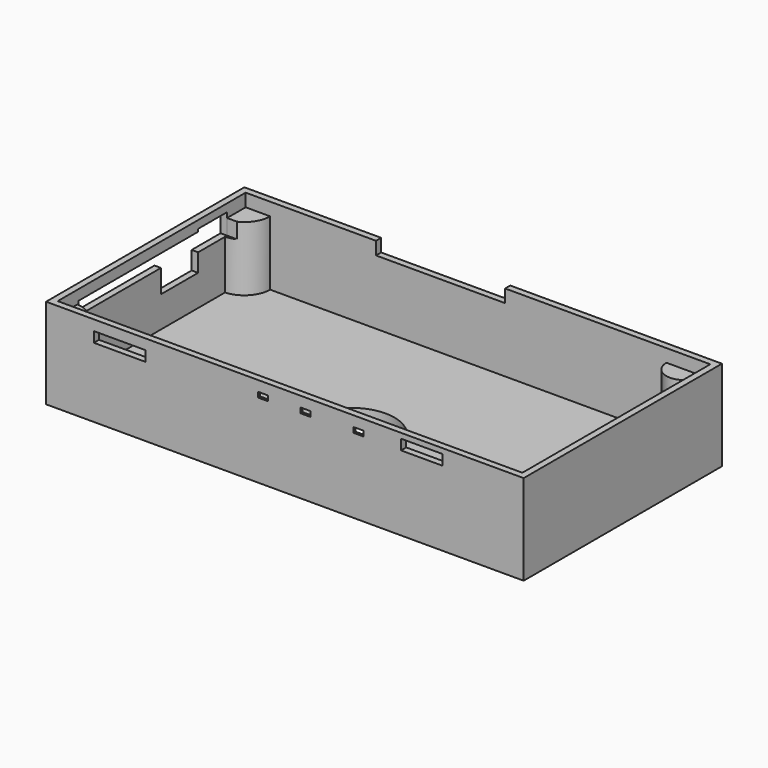
from build123d import *

# Parameters (mm, degrees)
CYLINDER_W                  = 10
CYLINDER_H                  = 30
CYLINDER_ANGLE              = 90
CYLINDER002_W               = 7
CYLINDER002_H               = 30
CYLINDER002_ANGLE           = 180
CYLINDER003_W               = 10
CYLINDER003_H               = 27
CYLINDER003_ANGLE           = 90
CYLINDER003_PLACEMENT_ANGLE = 90
BOX002_W                    = 10
BOX002_H                    = 14
BOX002_DEPTH                = 8
CYLINDER001_W               = 10
CYLINDER001_H               = 30
CYLINDER001_ANGLE           = 90
CYLINDER001_PLACEMENT_ANGLE = -90
CYLINDER004_R               = 17
CYLINDER004_DEPTH           = 10
BOX012_W                    = 8
BOX012_H                    = 2
BOX012_DEPTH                = 6
BOX011_W                    = 8
BOX011_H                    = 2
BOX011_DEPTH                = 6
BOX013_W                    = 8
BOX013_H                    = 2
BOX013_DEPTH                = 6
BOX008_W                    = 4
BOX008_H                    = 4
BOX008_DEPTH                = 2
BOX009_W                    = 4
BOX009_H                    = 4
BOX009_DEPTH                = 2
BOX007_W                    = 4
BOX007_H                    = 4
BOX007_DEPTH                = 2
BOX006_W                    = 20
BOX006_H                    = 10
BOX006_DEPTH                = 4
BOX005_W                    = 50
BOX005_H                    = 10
BOX005_DEPTH                = 5
BOX004_W                    = 10
BOX004_H                    = 42
BOX004_DEPTH                = 5
BOX003_W                    = 10
BOX003_H                    = 18
BOX003_DEPTH                = 14
BOX010_W                    = 16
BOX010_H                    = 10
BOX010_DEPTH                = 4
BOX001_W                    = 180
BOX001_H                    = 91
BOX001_DEPTH                = 30
BOX_W                       = 185
BOX_H                       = 96
BOX_DEPTH                   = 35


with BuildPart() as obj1:
    # Cylinder → Cylinder (revolve)
    with BuildSketch(Plane(origin=(2, 2, 0), x_dir=(1, 0, 0), z_dir=(0, -1, 0))):
        with Locations((5, 15)):
            Rectangle(CYLINDER_W, CYLINDER_H)
    revolve(axis=Axis((2, 2, 0), (0, 0, 1)), revolution_arc=CYLINDER_ANGLE)


with BuildPart() as obj2:
    # Cylinder002 → Cylinder002 (revolve)
    with BuildSketch(Plane(origin=(172.5, 93.5, 0), x_dir=(-1, 0, 0), z_dir=(0, 1, 0))):
        with Locations((3.5, 15)):
            Rectangle(CYLINDER002_W, CYLINDER002_H)
    revolve(axis=Axis((172.5, 93.5, 0), (0, 0, 1)), revolution_arc=CYLINDER002_ANGLE)


with BuildPart() as obj3:
    # Cylinder003 → Cylinder003 (revolve)
    with BuildSketch(Plane.XZ):
        with Locations((5, 13.5)):
            Rectangle(CYLINDER003_W, CYLINDER003_H)
    revolve(axis=Axis((0, 0, 0), (0, 0, 1)), revolution_arc=CYLINDER003_ANGLE)


with BuildPart() as obj3_1:
    # Cylinder003 placement: moved
    add(obj3.part.moved(Location((182.5, 0.5, 0))).rotate(Axis((182.5, 0.5, 0), (0, 0, 1)), CYLINDER003_PLACEMENT_ANGLE))


with BuildPart() as headphone:
    # Box002 → Box002 (new body)
    with BuildSketch(Plane(origin=(-1, 70.5, 24), x_dir=(1, 0, 0), z_dir=(0, 0, 1))):
        with Locations((5, 7)):
            Rectangle(BOX002_W, BOX002_H)
    extrude(amount=BOX002_DEPTH)


with BuildPart() as obj4:
    # Cylinder001 → Cylinder001 (revolve)
    with BuildSketch(Plane.XZ):
        with Locations((5, 15)):
            Rectangle(CYLINDER001_W, CYLINDER001_H)
    revolve(axis=Axis((0, 0, 0), (0, 0, 1)), revolution_arc=CYLINDER001_ANGLE)


with BuildPart() as obj4_1:
    # Cylinder001 placement: moved
    add(obj4.part.moved(Location((2, 93.5, 0))).rotate(Axis((2, 93.5, 0), (0, 0, 1)), CYLINDER001_PLACEMENT_ANGLE))

    # Cut003: cut Headphone
    add(headphone.part, mode=Mode.SUBTRACT)


with BuildPart() as fanhole:
    # Cylinder004 → Cylinder004 (new body)
    with BuildSketch(Plane(origin=(90, 35, -3), x_dir=(1, 0, 0), z_dir=(0, 0, 1))):
        Circle(CYLINDER004_R)
    extrude(amount=CYLINDER004_DEPTH)


with BuildPart() as obj5:
    # Box012 → Box012 (new body)
    with BuildSketch(Plane(origin=(96.5, 1, 27), x_dir=(1, 0, 0), z_dir=(0, 0, 1))):
        with Locations((4, 1)):
            Rectangle(BOX012_W, BOX012_H)
    extrude(amount=BOX012_DEPTH)


with BuildPart() as obj6:
    # Box011 → Box011 (new body)
    with BuildSketch(Plane(origin=(80, 1, 27), x_dir=(1, 0, 0), z_dir=(0, 0, 1))):
        with Locations((4, 1)):
            Rectangle(BOX011_W, BOX011_H)
    extrude(amount=BOX011_DEPTH)


with BuildPart() as buttoncutouts:
    # Box013 → Box013 (new body)
    with BuildSketch(Plane(origin=(117, 1, 27), x_dir=(1, 0, 0), z_dir=(0, 0, 1))):
        with Locations((4, 1)):
            Rectangle(BOX013_W, BOX013_H)
    extrude(amount=BOX013_DEPTH)

    # Fusion001: union obj5, obj6
    add(obj5.part)
    add(obj6.part)


with BuildPart() as obj7:
    # Box008 → Box008 (new body)
    with BuildSketch(Plane(origin=(98.5, -2, 29), x_dir=(1, 0, 0), z_dir=(0, 0, 1))):
        with Locations((2, 2)):
            Rectangle(BOX008_W, BOX008_H)
    extrude(amount=BOX008_DEPTH)


with BuildPart() as power:
    # Box009 → Box009 (new body)
    with BuildSketch(Plane(origin=(119, -2, 29), x_dir=(1, 0, 0), z_dir=(0, 0, 1))):
        with Locations((2, 2)):
            Rectangle(BOX009_W, BOX009_H)
    extrude(amount=BOX009_DEPTH)


with BuildPart() as obj8:
    # Box007 → Box007 (new body)
    with BuildSketch(Plane(origin=(82, -2, 29), x_dir=(1, 0, 0), z_dir=(0, 0, 1))):
        with Locations((2, 2)):
            Rectangle(BOX007_W, BOX007_H)
    extrude(amount=BOX007_DEPTH)


with BuildPart() as obj9:
    # Box006 → Box006 (new body)
    with BuildSketch(Plane(origin=(18.5, -1, 27), x_dir=(1, 0, 0), z_dir=(0, 0, 1))):
        with Locations((10, 5)):
            Rectangle(BOX006_W, BOX006_H)
    extrude(amount=BOX006_DEPTH)


with BuildPart() as obj10:
    # Box005 → Box005 (new body)
    with BuildSketch(Plane(origin=(53, 87, 30), x_dir=(1, 0, 0), z_dir=(0, 0, 1))):
        with Locations((25, 5)):
            Rectangle(BOX005_W, BOX005_H)
    extrude(amount=BOX005_DEPTH)


with BuildPart() as ports:
    # Box004 → Box004 (new body)
    with BuildSketch(Plane(origin=(-1, 12.5, 26), x_dir=(1, 0, 0), z_dir=(0, 0, 1))):
        with Locations((5, 21)):
            Rectangle(BOX004_W, BOX004_H)
    extrude(amount=BOX004_DEPTH)


with BuildPart() as obj11:
    # Box003 → Box003 (new body)
    with BuildSketch(Plane(origin=(-1, 52.5, 17), x_dir=(1, 0, 0), z_dir=(0, 0, 1))):
        with Locations((5, 9)):
            Rectangle(BOX003_W, BOX003_H)
    extrude(amount=BOX003_DEPTH)


with BuildPart() as obj12:
    # Box010 → Box010 (new body)
    with BuildSketch(Plane(origin=(137.5, -1, 29), x_dir=(1, 0, 0), z_dir=(0, 0, 1))):
        with Locations((8, 5)):
            Rectangle(BOX010_W, BOX010_H)
    extrude(amount=BOX010_DEPTH)

    # Fusion: union obj7, Power, obj8, obj9, obj10, Ports, obj11, Headphone
    add(obj7.part)
    add(power.part)
    add(obj8.part)
    add(obj9.part)
    add(obj10.part)
    add(ports.part)
    add(obj11.part)
    add(headphone.part)


with BuildPart() as inside:
    # Box001 → Box001 (new body)
    with BuildSketch(Plane(origin=(2.5, 2.5, 5), x_dir=(1, 0, 0), z_dir=(0, 0, 1))):
        with Locations((90, 45.5)):
            Rectangle(BOX001_W, BOX001_H)
    extrude(amount=BOX001_DEPTH)


with BuildPart() as cut004:
    # Box → Box (new body)
    with BuildSketch(Plane.XY):
        with Locations((92.5, 48)):
            Rectangle(BOX_W, BOX_H)
    extrude(amount=BOX_DEPTH)

    # Cut: cut Inside
    add(inside.part, mode=Mode.SUBTRACT)

    # Cut001: cut obj12
    add(obj12.part, mode=Mode.SUBTRACT)

    # Cut002: cut ButtonCutouts
    add(buttoncutouts.part, mode=Mode.SUBTRACT)

    # Cut004: cut FanHole
    add(fanhole.part, mode=Mode.SUBTRACT)


solid = Compound([obj1.part, obj2.part, obj3_1.part, obj4_1.part, cut004.part])
